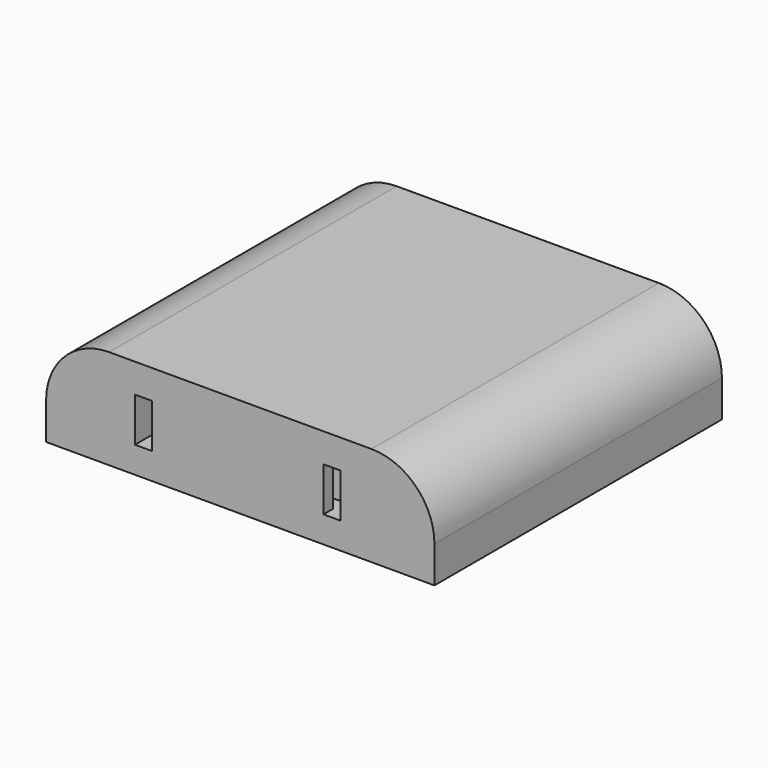
from build123d import *

# Parameters (mm, degrees)
F1_DEPTH = 57
F3_DEPTH = 20
F4_W     = 2.7
F4_H     = 7
F4_W_2   = 27.2
F5_DEPTH = 4.1
F6_DEPTH = 1.9


with BuildPart() as f1:
    # F0 (on Front) → F1 (new body)
    with BuildSketch(Plane.XZ):
        with BuildLine():
            Line((20.8, 15.8), (-20.8, 15.8))
            ThreePointArc((-20.8, 15.8), (-27.871068, 12.871068), (-30.8, 5.8))
            Line((-30.8, 5.8), (-30.8, 0))
            Line((-30.8, 0), (30.8, 0))
            Line((30.8, 0), (30.8, 5.8))
            ThreePointArc((30.8, 5.8), (27.871068, 12.871068), (20.8, 15.8))
        make_face()
    extrude(amount=F1_DEPTH)

    # F2 (on Right) → F3 (join, symmetric)
    with BuildSketch(Plane.YZ):
        with BuildLine():
            Line((0, 15), (0, 0))
            Line((0, 0), (0.6, 0))
            ThreePointArc((0.6, 0), (2.014214, 0.585786), (2.6, 2))
            Line((2.6, 2), (2.6, 13))
            ThreePointArc((2.6, 13), (2.014214, 14.414214), (0.6, 15))
            Line((0.6, 15), (0, 15))
        make_face()
    extrude(amount=F3_DEPTH, both=True)

    # F4 (on face) → F5 (cut)
    with BuildSketch(Plane.XZ.offset(57)):
        with Locations((-15.35, 7.7)):
            Rectangle(F4_W, F4_H)
        with Locations((-0.4, 7.7)):
            Rectangle(F4_W_2, F4_H)
        with Locations((14.55, 7.7)):
            Rectangle(F4_W, F4_H)
    extrude(amount=-F5_DEPTH, mode=Mode.SUBTRACT)

    # F4 (on face) → F6 (join)
    with BuildSketch(Plane.XZ.offset(57)):
        with Locations((-0.4, 7.7)):
            Rectangle(F4_W_2, F4_H)
    extrude(amount=-F6_DEPTH)


solid = f1.part
